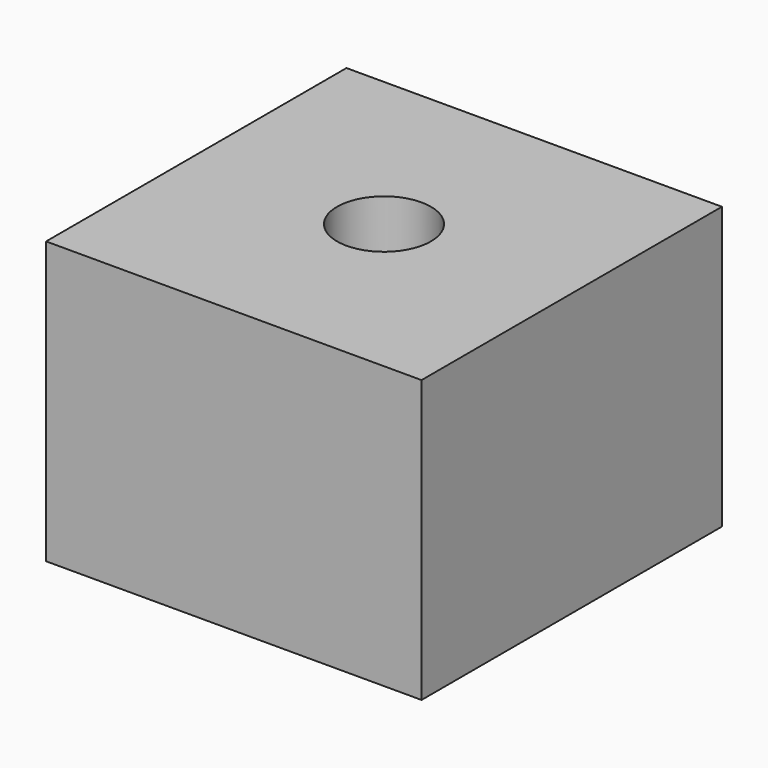
from build123d import *

# Parameters (mm, degrees)
F0_W     = 50.8
F0_H     = 38.1
F1_DEPTH = 50.8
F2_R     = 6.35
F3_DEPTH = 56.515


with BuildPart() as f1:
    # F0 (on Front) → F1 (new body)
    with BuildSketch(Plane.XZ):
        with Locations((9.785334, 23.113354)):
            Rectangle(F0_W, F0_H)
    extrude(amount=F1_DEPTH)

    # F2 (on face) → F3 (cut)
    with BuildSketch(Plane.XY.offset(42.163354)):
        with Locations((9.785334, -25.4)):
            Circle(F2_R)
    extrude(amount=-F3_DEPTH, mode=Mode.SUBTRACT)


solid = f1.part
